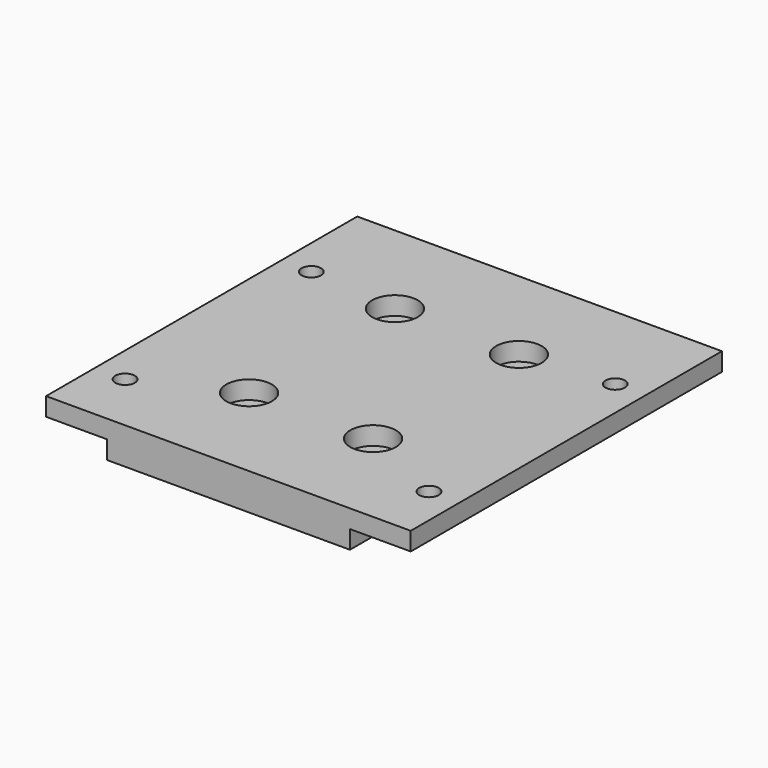
from build123d import *

# Parameters (mm, degrees)
F0_W      = 40
F0_H      = 64
F1_DEPTH  = 3
F2_W      = 10
F2_H      = 64
F2_W_2    = 40
F3_DEPTH  = 3
F4_R      = 1.6
F5_DEPTH  = 25
F6_R      = 1.6
F7_DEPTH  = 25
F8_R      = 3.75
F9_DEPTH  = 3
F10_R     = 2
F11_DEPTH = 25


with BuildPart() as f1:
    # F0 (on Top) → F1 (new body)
    with BuildSketch(Plane.XY):
        Rectangle(F0_W, F0_H)
    extrude(amount=F1_DEPTH)

    # F2 (on face) → F3 (join)
    with BuildSketch(Plane.XY.offset(3)):
        with Locations((-25, 0)):
            Rectangle(F2_W, F2_H)
        Rectangle(F2_W_2, F2_H)
        with Locations((25, 0)):
            Rectangle(F2_W, F2_H)
    extrude(amount=F3_DEPTH)

    # F4 (on face) → F5 (cut)
    with BuildSketch(Plane.XY.offset(6)):
        with Locations((-25, 16.3)):
            Circle(F4_R)
    extrude(amount=-F5_DEPTH, mode=Mode.SUBTRACT)

    # F6 (on face) → F7 (cut)
    with BuildSketch(Plane.XY.offset(6)):
        with Locations((-25, -22)):
            Circle(F6_R)
        with Locations((25, -22)):
            Circle(F6_R)
        with Locations((25, 16.3)):
            Circle(F6_R)
    extrude(amount=-F7_DEPTH, mode=Mode.SUBTRACT)

    # F8 (on face) → F9 (cut)
    with BuildSketch(Plane.XY.offset(6)):
        with Locations((-10.2, -15)):
            Circle(F8_R)
        with Locations((10.2, -15)):
            Circle(F8_R)
        with Locations((10.2, 15)):
            Circle(F8_R)
        with Locations((-10.2, 15)):
            Circle(F8_R)
    extrude(amount=-F9_DEPTH, mode=Mode.SUBTRACT)

    # F10 (on face) → F11 (cut)
    with BuildSketch(Plane.XY.offset(3)):
        with Locations((-10.2, -15)):
            Circle(F10_R)
        with Locations((-10.2, 15)):
            Circle(F10_R)
        with Locations((10.2, 15)):
            Circle(F10_R)
        with Locations((10.2, -15)):
            Circle(F10_R)
    extrude(amount=-F11_DEPTH, mode=Mode.SUBTRACT)


solid = f1.part
